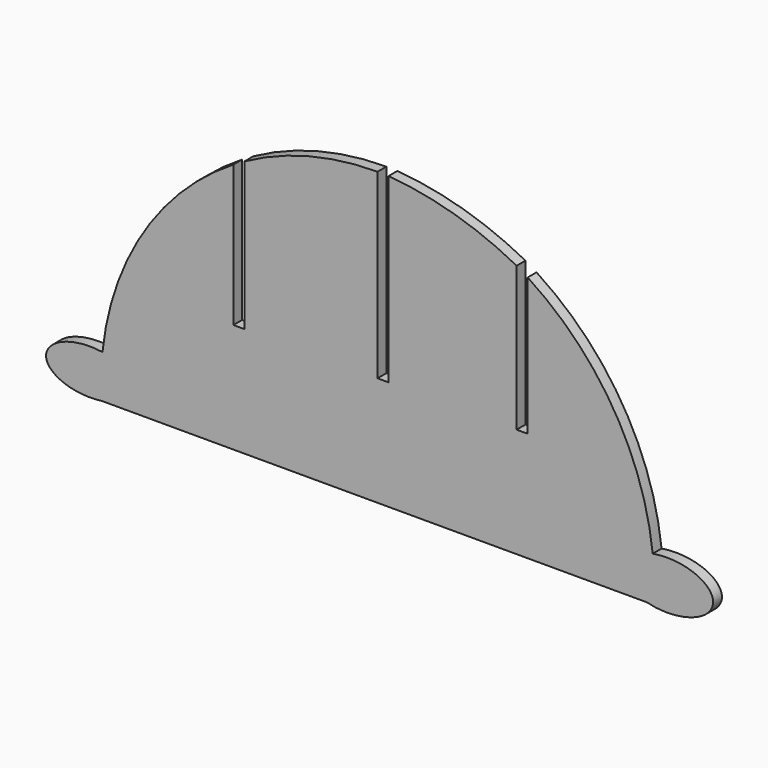
from build123d import *

# Parameters (mm, degrees)
F1_DEPTH = 3


with BuildPart() as f1:
    # F0 (on Front) → F1 (new body)
    with BuildSketch(Plane.XZ):
        with BuildLine():
            Line((-79.0452127299, 0), (69.0229559835, 0))
            add(Edge.make_bspline(
                [(69.0229559835, 0), (85.6945972777, -4.3458351256), (86.9840587657, 5.4386887479), (88.2735202537, 15.2232126214), (70.6222528456, 12.1355763426)],
                knots=[4.2533519881, 4.2533519881, 4.2533519881, 6.213791767, 6.213791767, 8.1742315459, 8.1742315459, 8.1742315459], degree=2, weights=[1, 0.5568399157, 1, 0.5568399157, 1]))
            ThreePointArc((70.6222528456, 12.1355763426), (59.8651737024, 43.474242989), (36.672191381, 67.1367101027))
            Line((36.672191381, 67.1367101027), (36.672191381, 29.7612857236))
            Line((36.672191381, 29.7612857236), (33.672191381, 29.7612857236))
            Line((33.672191381, 29.7612857236), (33.672191381, 68.9512545233))
            ThreePointArc((33.672191381, 68.9512545233), (16.7999017545, 75.7810175572), (-1.1010164612, 79.0790392931))
            Line((-1.1010164612, 79.0790392931), (-1.1010164612, 29.7612857236))
            Line((-1.1010164612, 29.7612857236), (-4.1010164612, 29.7612857236))
            Line((-4.1010164612, 29.7612857236), (-4.1010164612, 79.1372532596))
            ThreePointArc((-4.1010164612, 79.1372532596), (-22.752294767, 76.774015939), (-40.2326607406, 69.853620105))
            Line((-40.2326607406, 69.853620105), (-40.2326607406, 29.7612857236))
            Line((-40.2326607406, 29.7612857236), (-43.2326607406, 29.7612857236))
            Line((-43.2326607406, 29.7612857236), (-43.2326607406, 68.1139099124))
            ThreePointArc((-43.2326607406, 68.1139099124), (-67.5977422538, 44.0892102751), (-78.779419337, 11.7501705953))
            add(Edge.make_bspline(
                [(-78.779419337, 11.7501705953), (-93.9009427926, 14.0690605603), (-94.0842465138, 5.9655860133), (-94.267550235, -2.1378885336), (-79.0452127299, 0)],
                knots=[1.2805996774, 1.2805996774, 1.2805996774, 3.1299772031, 3.1299772031, 4.9793547288, 4.9793547288, 4.9793547288], degree=2, weights=[1, 0.6020831237, 1, 0.6020831237, 1]))
        make_face()
    extrude(amount=F1_DEPTH)


solid = f1.part
